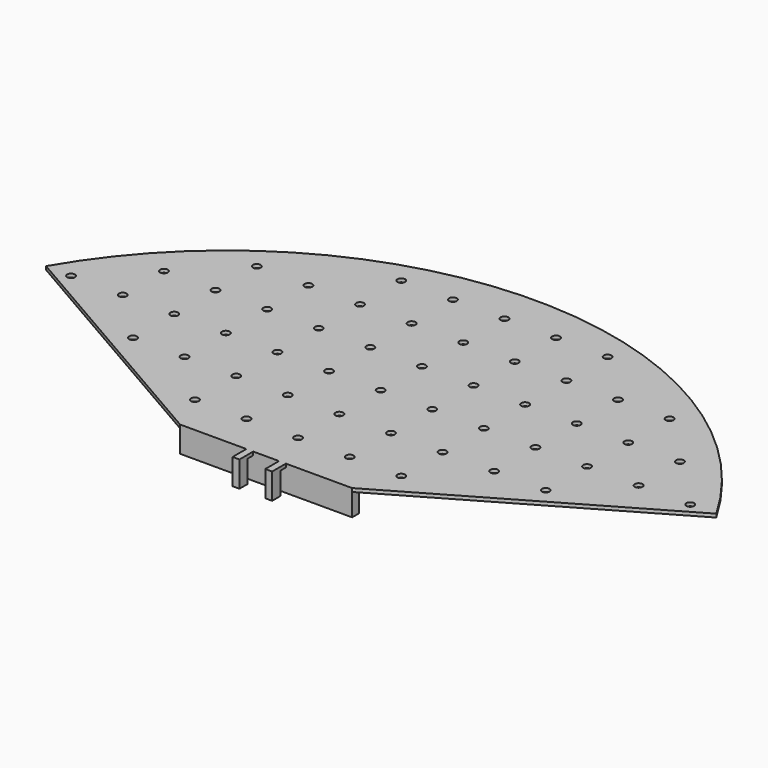
from build123d import *

# Parameters (mm, degrees)
F1_DEPTH = 2
F2_R     = 2.25
F3_DEPTH = 25
F4_W     = 4
F4_H     = 2
F5_DEPTH = 10
F6_W     = 100
F6_H     = 5
F6_W_2   = 4
F6_H_2   = 6
F7_DEPTH = 13


with BuildPart() as f1:
    # F0 (on Top) → F1 (new body)
    with BuildSketch(Plane.XY):
        with BuildLine():
            Line((50, 28.866667), (194.856083, 112.499365))
            ThreePointArc((194.856083, 112.499365), (0, 225), (-194.856083, 112.499365))
            Line((-194.856083, 112.499365), (-50, 28.866667))
            Line((-50, 28.866667), (50, 28.866667))
        make_face()
    extrude(amount=F1_DEPTH)

    # F2 (on face) → F3 (cut)
    with BuildSketch(Plane.XY.offset(2)):
        with Locations((0, 52.116667)):
            Circle(F2_R)
        with Locations((0, 82.116667)):
            Circle(F2_R)
        with Locations((0, 112.116667)):
            Circle(F2_R)
        with Locations((0, 142.116667)):
            Circle(F2_R)
        with Locations((0, 172.116667)):
            Circle(F2_R)
        with Locations((0, 202.116667)):
            Circle(F2_R)
        with Locations((30, 52.116667)):
            Circle(F2_R)
        with Locations((30, 82.116667)):
            Circle(F2_R)
        with Locations((30, 112.116667)):
            Circle(F2_R)
        with Locations((30, 142.116667)):
            Circle(F2_R)
        with Locations((30, 172.116667)):
            Circle(F2_R)
        with Locations((30, 202.116667)):
            Circle(F2_R)
        with Locations((60, 52.116667)):
            Circle(F2_R)
        with Locations((60, 82.116667)):
            Circle(F2_R)
        with Locations((60, 112.116667)):
            Circle(F2_R)
        with Locations((60, 142.116667)):
            Circle(F2_R)
        with Locations((60, 172.116667)):
            Circle(F2_R)
        with Locations((60, 202.116667)):
            Circle(F2_R)
        with Locations((-30, 202.116667)):
            Circle(F2_R)
        with Locations((-30, 172.116667)):
            Circle(F2_R)
        with Locations((-30, 142.116667)):
            Circle(F2_R)
        with Locations((-30, 112.116667)):
            Circle(F2_R)
        with Locations((-30, 82.116667)):
            Circle(F2_R)
        with Locations((-30, 52.116667)):
            Circle(F2_R)
        with Locations((-60, 202.116667)):
            Circle(F2_R)
        with Locations((-60, 172.116667)):
            Circle(F2_R)
        with Locations((-60, 142.116667)):
            Circle(F2_R)
        with Locations((-60, 112.116667)):
            Circle(F2_R)
        with Locations((-60, 82.116667)):
            Circle(F2_R)
        with Locations((-60, 52.116667)):
            Circle(F2_R)
        with Locations((-90, 112.116667)):
            Circle(F2_R)
        with Locations((-90, 82.116667)):
            Circle(F2_R)
        with Locations((-90, 142.116667)):
            Circle(F2_R)
        with Locations((-90, 172.116667)):
            Circle(F2_R)
        with Locations((-120, 112.116667)):
            Circle(F2_R)
        with Locations((-120, 82.116667)):
            Circle(F2_R)
        with Locations((-120, 142.116667)):
            Circle(F2_R)
        with Locations((-120, 172.116667)):
            Circle(F2_R)
        with Locations((90, 112.116667)):
            Circle(F2_R)
        with Locations((90, 82.116667)):
            Circle(F2_R)
        with Locations((90, 142.116667)):
            Circle(F2_R)
        with Locations((90, 172.116667)):
            Circle(F2_R)
        with Locations((120, 112.116667)):
            Circle(F2_R)
        with Locations((120, 82.116667)):
            Circle(F2_R)
        with Locations((120, 142.116667)):
            Circle(F2_R)
        with Locations((120, 172.116667)):
            Circle(F2_R)
        with Locations((-150, 142.116667)):
            Circle(F2_R)
        with Locations((-150, 112.116667)):
            Circle(F2_R)
        with Locations((150, 142.116667)):
            Circle(F2_R)
        with Locations((150, 112.116667)):
            Circle(F2_R)
        with Locations((180, 112.116667)):
            Circle(F2_R)
        with Locations((-180, 112.116667)):
            Circle(F2_R)
    extrude(amount=-F3_DEPTH, mode=Mode.SUBTRACT)

    # F4 (on face) → F5 (join)
    with BuildSketch(Plane.XZ.offset(-28.866667)):
        with Locations((-9.5, 1)):
            Rectangle(F4_W, F4_H)
        with Locations((9.5, 1)):
            Rectangle(F4_W, F4_H)
    extrude(amount=F5_DEPTH)

    # F6 (on face) → F7 (join)
    with BuildSketch(Plane(origin=(0, 0, 0), x_dir=(1, 0, 0), z_dir=(0, 0, -1))):
        with Locations((0, -31.366667)):
            Rectangle(F6_W, F6_H)
        with Locations((-9.5, -21.866667)):
            Rectangle(F6_W_2, F6_H_2)
        with Locations((9.5, -21.866667)):
            Rectangle(F6_W_2, F6_H_2)
    extrude(amount=F7_DEPTH)


solid = f1.part
